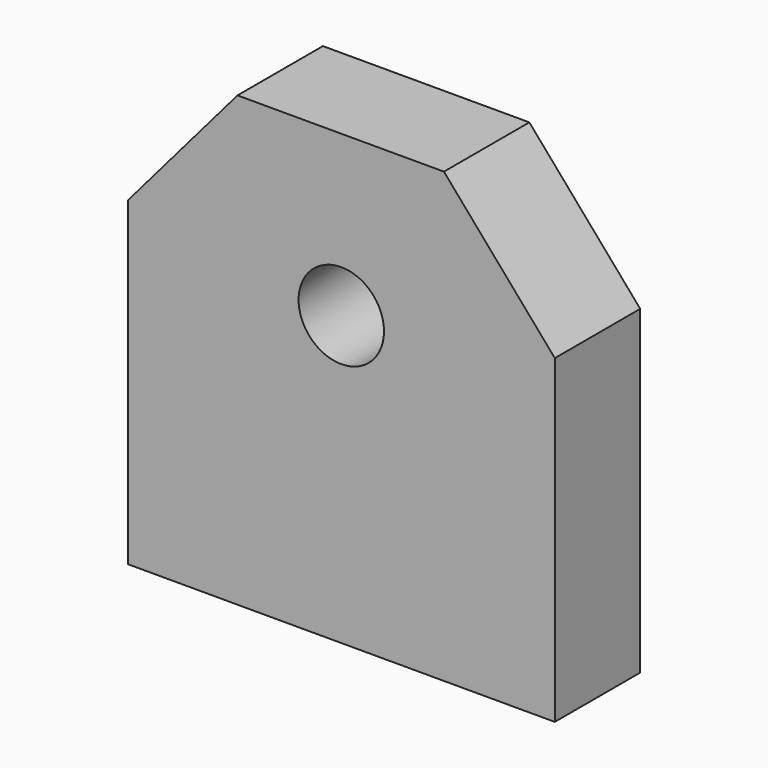
from build123d import *

# Parameters (mm, degrees)
F0_R     = 4
F1_DEPTH = 10
F2_R     = 3
F3_DEPTH = 10


with BuildPart() as f1:
    # F0 (on Front) → F1 (new body)
    with BuildSketch(Plane.XZ):
        Polygon((-20, 30), (-20, 0), (20, 0), (20, 30), (9.614969, 42), (-9.72316, 42), align=None)
        with Locations((0, 27)):
            Circle(F0_R, mode=Mode.SUBTRACT)
    extrude(amount=-F1_DEPTH)

    # F2 (on face) → F3 (cut)
    with BuildSketch(Plane(origin=(0, 0, 0), x_dir=(1, 0, 0), z_dir=(0, 0, -1))):
        with Locations((-15, -5)):
            Circle(F2_R)
        with Locations((15, -5)):
            Circle(F2_R)
    extrude(amount=-F3_DEPTH, mode=Mode.SUBTRACT)


solid = f1.part
